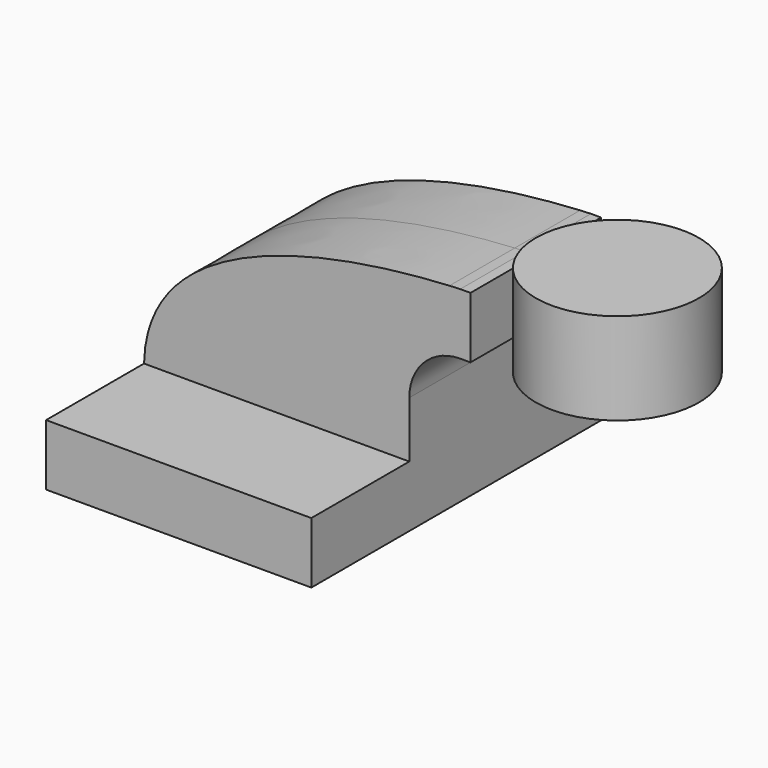
from build123d import *

# Parameters (mm, degrees)
F1_DEPTH = 63.5
F2_DEPTH = 25.4


with BuildPart() as f1:
    # F0 (on Front) → F1 (new body, symmetric)
    with BuildSketch(Plane.XZ):
        Polygon((41.275, -9.525), (41.275, 9.525), (22.225, 9.525), (-41.275, 9.525), (-41.275, -9.525), align=None)
    extrude(amount=F1_DEPTH, both=True)

    # F0 (on Front) → F2 (join, symmetric)
    with BuildSketch(Plane.XZ):
        with BuildLine():
            Line((22.225, 9.525), (41.275, 9.525))
            Line((41.275, 9.525), (41.275, 27.0002))
            ThreePointArc((41.275, 27.0002), (45.92468, 38.22552), (57.15, 42.8752))
            Line((57.15, 42.8752), (60.325, 42.8752))
            Line((60.325, 42.8752), (60.325, 61.9252))
            Line((60.325, 61.9252), (57.15, 61.9252))
            add(Edge.make_bspline(
                [(53.782409, 61.762463), (54.94256, 61.825673), (56.066423, 61.879551), (57.15, 61.9252)],
                knots=[107.683779, 107.683779, 107.683779, 107.683779, 111.504536, 111.504536, 111.504536, 111.504536], degree=3))
            ThreePointArc((53.782409, 61.762463), (31.291068, 50.475107), (22.225, 27.0002))
            Line((22.225, 27.0002), (22.225, 9.525))
        make_face()
        with BuildLine():
            Line((-41.275, 9.525), (22.225, 9.525))
            Line((22.225, 9.525), (22.225, 27.0002))
            ThreePointArc((22.225, 27.0002), (31.291068, 50.475107), (53.782409, 61.762463))
            add(Edge.make_bspline(
                [(-41.275, 9.525), (-40.437, 50.787412), (21.084859, 59.980971), (53.782409, 61.762463)],
                knots=[0, 0, 0, 0, 107.683779, 107.683779, 107.683779, 107.683779], degree=3))
        make_face()
    extrude(amount=F2_DEPTH, both=True)

    # F0 (on Front) → F3 (revolve)
    with BuildSketch(Plane.XZ):
        Polygon((60.325, 61.9252), (60.325, 42.8752), (60.325, 38.1), (85.725, 38.1), (85.725, 66.675), (60.325, 66.675), align=None)
    revolve(axis=Axis((85.725, 0, 52.3875), (0, 0, 1)))


solid = f1.part
